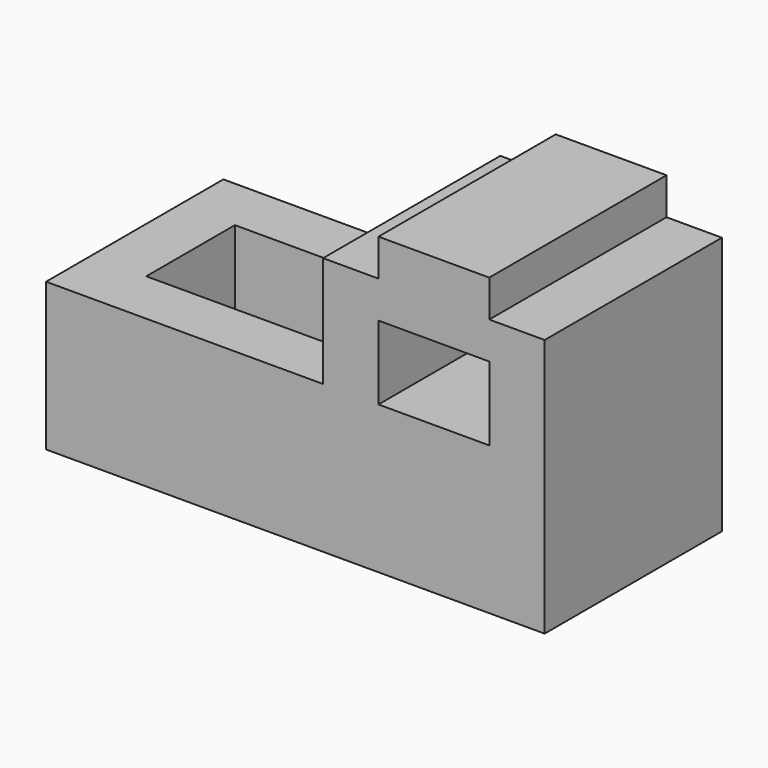
from build123d import *

# Parameters (mm, degrees)
F1_DEPTH = 121.92
F3_DEPTH = 60.96
F4_W     = 60.96
F4_H     = 40.64
F5_DEPTH = 121.921


with BuildPart() as f1:
    # F0 (on Front) → F1 (new body)
    with BuildSketch(Plane.XZ):
        Polygon((137.16, -40.64), (137.16, 40.64), (15.24, 40.64), (-137.16, 40.64), (-137.16, -40.64), align=None)
        Polygon((15.24, 40.64), (137.16, 40.64), (137.16, 101.6), (106.68, 101.6), (106.68, 121.92), (45.72, 121.92), (45.72, 101.6), (15.24, 101.6), align=None)
    extrude(amount=F1_DEPTH)

    # F2 (on face) → F3 (cut)
    with BuildSketch(Plane.XY.offset(40.64)):
        Polygon((15.24, -91.111548), (15.24, -30.151548), (-45.72, -30.151548), (-106.68, -30.151548), (-106.68, -91.111548), align=None)
    extrude(amount=-F3_DEPTH, mode=Mode.SUBTRACT)

    # F4 (on face) → F5 (cut, through all)
    with BuildSketch(Plane.XZ.offset(121.92)):
        with Locations((76.2, 60.96)):
            Rectangle(F4_W, F4_H)
    extrude(amount=-F5_DEPTH, mode=Mode.SUBTRACT)


solid = f1.part
